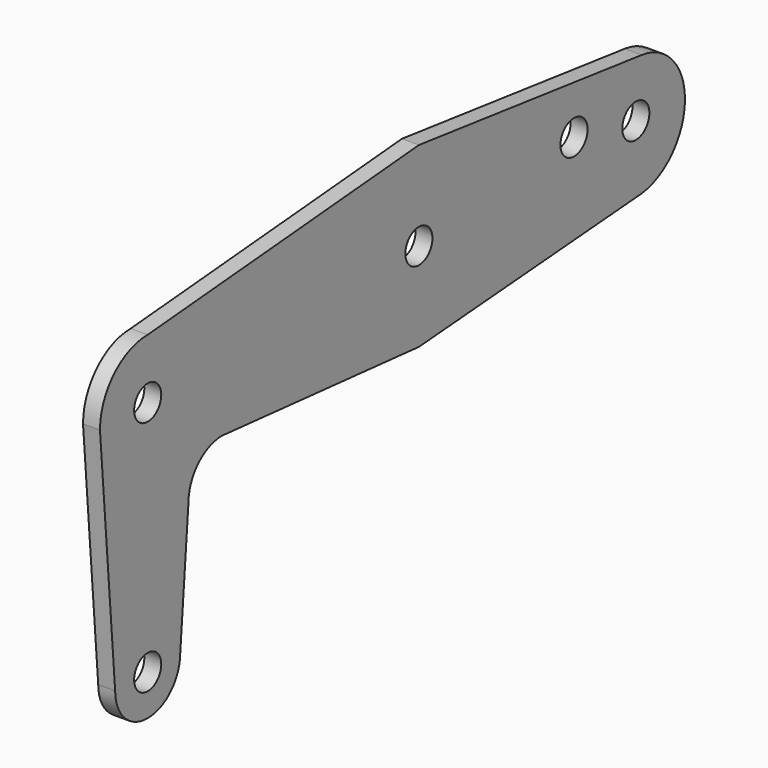
from build123d import *

# Parameters (mm, degrees)
F0_R     = 3.175
F1_DEPTH = 3.175


with BuildPart() as f1:
    # F0 (on Right) → F1 (new body)
    with BuildSketch(Plane.YZ):
        with BuildLine():
            Line((-11.176, 44.45), (-7.62, 0))
            ThreePointArc((-7.62, 0), (0, -7.62), (7.62, 0))
            Line((7.62, 0), (9.542272, 24.0284))
            ThreePointArc((9.542272, 24.0284), (11.848513, 29.596159), (17.416272, 31.9024))
            Line((17.416272, 31.9024), (63.5, 27.810218))
            Line((63.5, 27.810218), (115.700079, 31.9024))
            ThreePointArc((115.700079, 31.9024), (125.810106, 43.319551), (115.700079, 54.736701))
            Line((115.700079, 54.736701), (63.5, 61.099302))
            Line((63.5, 61.099302), (0, 55.626))
            ThreePointArc((0, 55.626), (-7.902625, 52.352625), (-11.176, 44.45))
        make_face()
        Circle(F0_R, mode=Mode.SUBTRACT)
        with Locations((0, 44.45)):
            Circle(F0_R, mode=Mode.SUBTRACT)
        with Locations((63.5, 44.45)):
            Circle(F0_R, mode=Mode.SUBTRACT)
        with Locations((99.822, 47.625)):
            Circle(F0_R, mode=Mode.SUBTRACT)
        with Locations((114.3, 44.45)):
            Circle(F0_R, mode=Mode.SUBTRACT)
    extrude(amount=F1_DEPTH)


solid = f1.part
